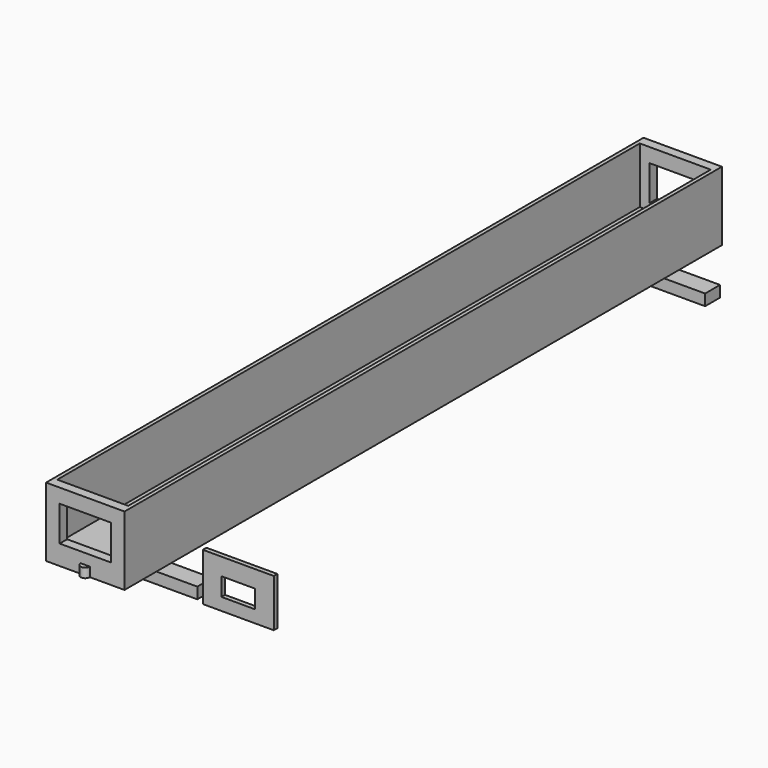
from build123d import *

# Parameters (mm, degrees)
F0_W      = 210
F0_H      = 185
F1_DEPTH  = 2000
F2_W      = 137
F2_H      = 94
F3_DEPTH  = 2100
F4_DEPTH  = 2100
F5_W      = 190
F5_H      = 1950
F6_DEPTH  = 150
F8_DEPTH  = 25
F9_R      = 17.5
F10_DEPTH = 12
F11_W     = 400
F11_H     = 50
F12_DEPTH = 30
F11_R     = 17.5
F13_W     = 190
F13_H     = 128
F13_W_2   = 90
F13_H_2   = 48.74
F14_DEPTH = 12


with BuildPart() as f1:
    # F0 (on Front) → F1 (new body)
    with BuildSketch(Plane.XZ):
        Rectangle(F0_W, F0_H)
    extrude(amount=-F1_DEPTH)

    # F2 (on face) → F3 (join)
    with BuildSketch(Plane.XZ):
        with Locations((0, 7.5)):
            Rectangle(F2_W, F2_H)
    extrude(amount=-F3_DEPTH)

    # F2 (on face) → F4 (cut)
    with BuildSketch(Plane.XZ):
        with Locations((0, 7.5)):
            Rectangle(F2_W, F2_H)
    extrude(amount=-F4_DEPTH, mode=Mode.SUBTRACT)

    # F5 (on face) → F6 (cut)
    with BuildSketch(Plane.XY.offset(92.5)):
        with Locations((0, 1000)):
            Rectangle(F5_W, F5_H)
    extrude(amount=-F6_DEPTH, mode=Mode.SUBTRACT)

    # F9 (on face) → F10 (join)
    with BuildSketch(Plane(origin=(0, 0, -92.5), x_dir=(1, 0, 0), z_dir=(0, 0, -1))):
        with Locations((65, -1850)):
            Circle(F9_R)
        with Locations((-65, -1850)):
            Circle(F9_R)
        with Locations((65, -150)):
            Circle(F9_R)
        with Locations((-65, -150)):
            Circle(F9_R)
    extrude(amount=F10_DEPTH)


with BuildPart() as f8:
    # F7 (on face) → F8 (new body)
    with BuildSketch(Plane(origin=(0, 0, -92.5), x_dir=(1, 0, 0), z_dir=(0, 0, -1))):
        with BuildLine():
            Line((-12.5, 0), (12.5, 0))
            ThreePointArc((12.5, 0), (0, 12.5), (-12.5, 0))
        make_face()
    extrude(amount=-F8_DEPTH)


with BuildPart() as f12:
    # F11 (on face) → F12 (new body)
    with BuildSketch(Plane(origin=(0, 0, -104.5), x_dir=(1, 0, 0), z_dir=(0, 0, -1))):
        with Locations((0, -1850)):
            Rectangle(F11_W, F11_H)
    extrude(amount=F12_DEPTH)


with BuildPart() as f12b:
    # F11 (on face) → F12, piece 2 (new body)
    with BuildSketch(Plane(origin=(0, 0, -104.5), x_dir=(1, 0, 0), z_dir=(0, 0, -1))):
        with Locations((0, -150)):
            Rectangle(F11_W, F11_H)
        with Locations((-65, -150)):
            Circle(F11_R, mode=Mode.SUBTRACT)
        with Locations((-65, -150)):
            Circle(F11_R)
    extrude(amount=F12_DEPTH)


with BuildPart() as f14:
    # F13 (on face) → F14 (new body)
    with BuildSketch(Plane.XZ):
        with Locations((409.7357392311, 6.5)):
            Rectangle(F13_W, F13_H)
        with Locations((409.7357392311, 0)):
            Rectangle(F13_W_2, F13_H_2, mode=Mode.SUBTRACT)
    extrude(amount=-F14_DEPTH)


solid = Compound([f1.part, f8.part, f12.part, f12b.part, f14.part])
